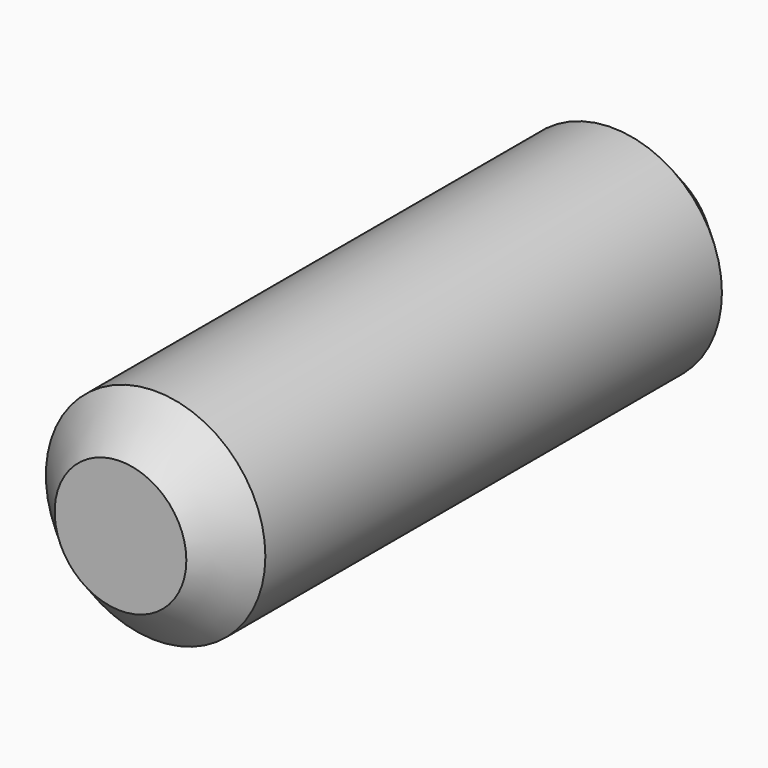
from build123d import *

# Parameters (mm, degrees)
F0_R     = 12.7
F0_R_2   = 5.08
F1_DEPTH = 76.2
F2_DEPTH = 76.2
F3_SIZE  = 5.08


with BuildPart() as f1:
    # F0 (on Front) → F1 (new body)
    with BuildSketch(Plane.XZ):
        Circle(F0_R)
        Circle(F0_R_2, mode=Mode.SUBTRACT)
    extrude(amount=F1_DEPTH)

    # F0 (on Front) → F2 (join)
    with BuildSketch(Plane.XZ):
        Circle(F0_R_2)
    extrude(amount=F2_DEPTH)

    # F3
    f3_edges = [f1.edges().sort_by_distance(p)[0] for p in [
        (-12.7, -76.2, 0),
        (-12.7, 0, 0),
    ]]
    chamfer(f3_edges, length=F3_SIZE)


solid = f1.part
